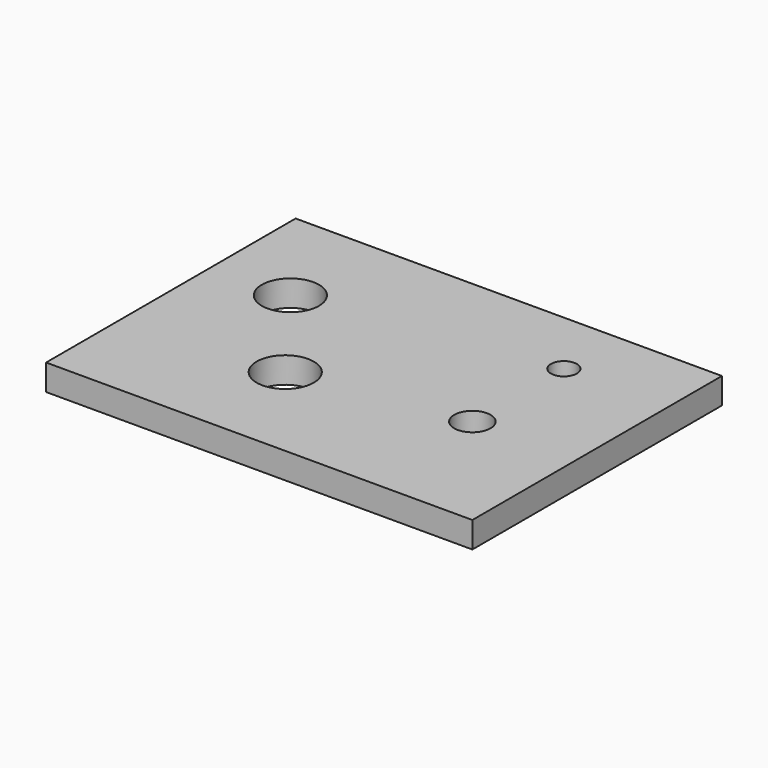
from build123d import *

# Parameters (mm, degrees)
F0_W     = 82
F0_H     = 60
F0_R     = 5.5
F0_R_2   = 3.5
F0_R_3   = 2.5
F1_DEPTH = 5


with BuildPart() as f1:
    # F0 (on Top) → F1 (new body)
    with BuildSketch(Plane.XY):
        Rectangle(F0_W, F0_H)
        with Locations((-11, -10)):
            Circle(F0_R, mode=Mode.SUBTRACT)
        with Locations((21, -5)):
            Circle(F0_R_2, mode=Mode.SUBTRACT)
        with Locations((-26, 10)):
            Circle(F0_R, mode=Mode.SUBTRACT)
        with Locations((21, 17)):
            Circle(F0_R_3, mode=Mode.SUBTRACT)
        Rectangle(F0_W, F0_H)
        with Locations((-11, -10)):
            Circle(F0_R, mode=Mode.SUBTRACT)
        with Locations((21, -5)):
            Circle(F0_R_2, mode=Mode.SUBTRACT)
        with Locations((-26, 10)):
            Circle(F0_R, mode=Mode.SUBTRACT)
        with Locations((21, 17)):
            Circle(F0_R_3, mode=Mode.SUBTRACT)
        Rectangle(F0_W, F0_H)
        with Locations((-11, -10)):
            Circle(F0_R, mode=Mode.SUBTRACT)
        with Locations((21, -5)):
            Circle(F0_R_2, mode=Mode.SUBTRACT)
        with Locations((-26, 10)):
            Circle(F0_R, mode=Mode.SUBTRACT)
        with Locations((21, 17)):
            Circle(F0_R_3, mode=Mode.SUBTRACT)
    extrude(amount=F1_DEPTH)


solid = f1.part
